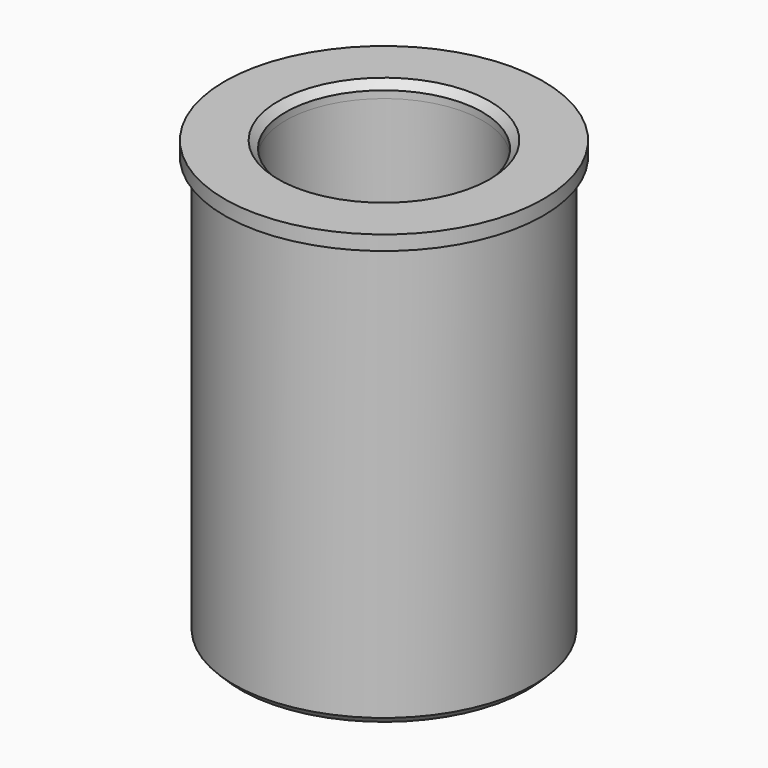
from build123d import *

# Parameters (mm, degrees)
F0_R     = 21.85
F0_R_2   = 20.6
F0_R_3   = 15
F0_R_4   = 13.5
F1_DEPTH = 2
F2_DEPTH = 58
F3_SIZE  = 1


with BuildPart() as f1:
    # F0 (on Top) → F1 (new body)
    with BuildSketch(Plane.XY):
        Circle(F0_R)
        Circle(F0_R_2, mode=Mode.SUBTRACT)
        Circle(F0_R_2)
        Circle(F0_R_3, mode=Mode.SUBTRACT)
        Circle(F0_R_3)
        Circle(F0_R_4, mode=Mode.SUBTRACT)
    extrude(amount=F1_DEPTH)

    # F0 (on Top) → F2 (join)
    with BuildSketch(Plane.XY):
        Circle(F0_R_2)
        Circle(F0_R_3, mode=Mode.SUBTRACT)
        Circle(F0_R_3)
        Circle(F0_R_4, mode=Mode.SUBTRACT)
    extrude(amount=-F2_DEPTH)

    # F3
    f3_edges = [f1.edges().sort_by_distance(p)[0] for p in [
        (-20.6, 0, -58),
        (-13.5, 0, -58),
        (-13.5, 0, 2),
    ]]
    chamfer(f3_edges, length=F3_SIZE)


solid = f1.part
